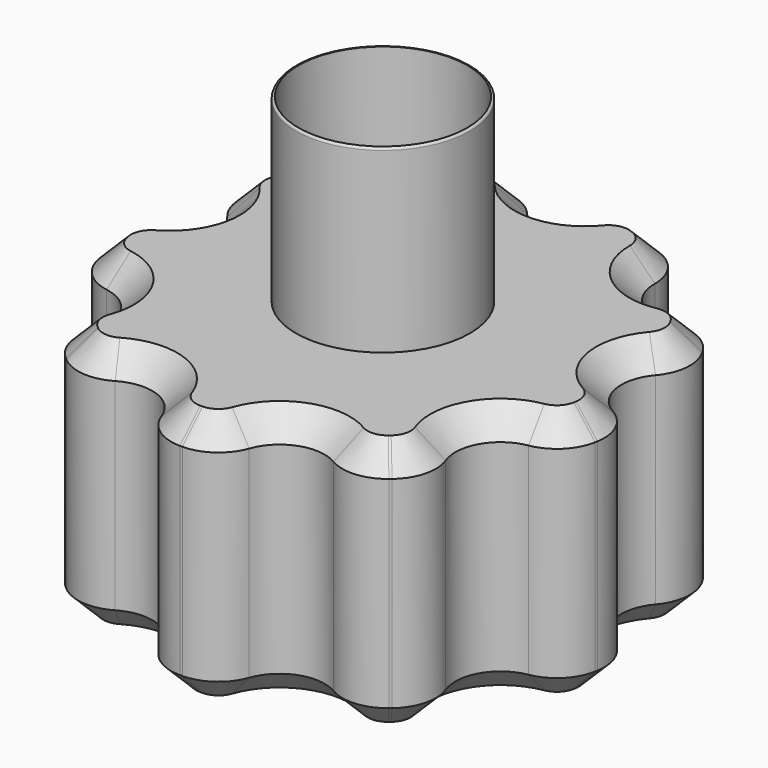
from build123d import *

# Parameters (mm, degrees)
SKETCH004_R        = 10
PAD005_DEPTH       = 10
SKETCH005_R        = 1.785714
POCKET_DEPTH       = 70.001
POLARPATTERN_COUNT = 9
SKETCH006_R        = 3.45
PAD006_DEPTH       = 7.142857
FILLET_R           = 1.8
CHAMFER_SIZE       = 1
SKETCH009_R        = 3.35
POCKET003_DEPTH    = 4.1
FILLET001_R        = 0.087


with BuildPart() as part:
    # Sketch004 → Pad005 (new body)
    with BuildSketch(Plane.XY):
        Circle(SKETCH004_R)
    extrude(amount=PAD005_DEPTH)

    # Sketch005 (on Face3 of Pad005) → Pocket (cut, through all)
    with BuildSketch(Plane.XY.offset(10)):
        with Locations((0, 10)):
            Circle(SKETCH005_R)
    pocket = extrude(amount=-POCKET_DEPTH, mode=Mode.SUBTRACT)

    # PolarPattern: Pocket ×9 about axis
    polarpattern_axis = Axis((0, 0, 10), (0, 0, 1))
    for i in range(1, POLARPATTERN_COUNT):
        add(pocket.rotate(polarpattern_axis, i * 360 / POLARPATTERN_COUNT), mode=Mode.SUBTRACT)

    # Sketch006 (on Face20 of PolarPattern) → Pad006 (join)
    with BuildSketch(Plane.XY.offset(10)):
        Circle(SKETCH006_R)
    extrude(amount=PAD006_DEPTH)

    # Fillet
    fillet_edges = [part.edges().sort_by_distance(p)[0] for p in [
        (7.632885, -6.460578, 5),
        (5.036991, -8.638792, 5),
        (1.69435, -9.855414, 5),
        (-1.69435, -9.855414, 5),
        (-5.036991, -8.638792, 5),
        (-7.632885, -6.460578, 5),
        (-9.411467, -3.379983, 5),
        (-9.999909, -0.042766, 5),
        (-9.382213, 3.460357, 5),
        (-7.687864, 6.395057, 5),
        (-4.962918, 8.681558, 5),
        (-1.778582, 9.840561, 5),
        (1.778582, 9.840561, 5),
        (4.962918, 8.681558, 5),
        (7.687864, 6.395057, 5),
        (9.382213, 3.460357, 5),
        (9.999909, -0.042766, 5),
        (9.411467, -3.379983, 5),
    ]]
    fillet(fillet_edges, radius=FILLET_R)

    # Chamfer
    chamfer_edges = [part.edges().sort_by_distance(p)[0] for p in [
        (-8.089492, 1.426396, 0),
        (0, 8.214286, 10),
    ]]
    chamfer(chamfer_edges, length=CHAMFER_SIZE)

    # Sketch009 (on Face112 of Chamfer) → Pocket003 (cut)
    with BuildSketch(Plane.XY.offset(17.142857)):
        Circle(SKETCH009_R)
    extrude(amount=-POCKET003_DEPTH, mode=Mode.SUBTRACT)

    # Fillet001
    fillet001_edges = [part.edges().sort_by_distance(p)[0] for p in [
        (-3.45, 0, 17.142857),
    ]]
    fillet(fillet001_edges, radius=FILLET001_R)


solid = part.part
